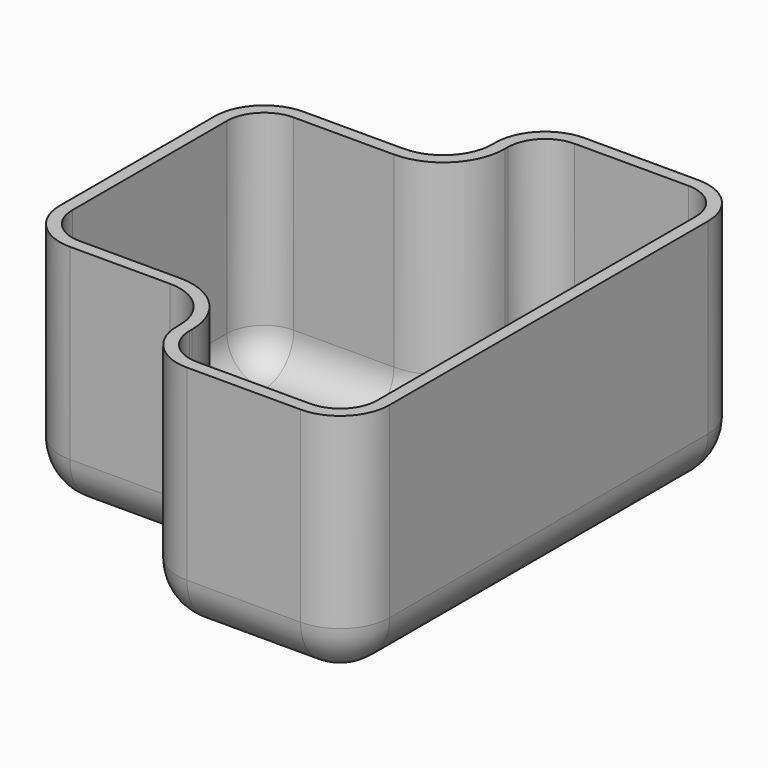
from build123d import *

# Parameters (mm, degrees)
F0_W     = 40.881359
F0_H     = 60.0299
F1_DEPTH = 48.612542
F2_R     = 10.16
F3_T     = -2.54
F5_D     = 15.24


with BuildPart() as f1:
    # F0 (on Top) → F1 (new body)
    with BuildSketch(Plane.XY):
        Polygon((43.658987, 51.038296), (0, 51.038296), (0, 30.01495), (0, -30.01495), (0, -51.038296), (43.658987, -51.038296), align=None)
        with Locations((-20.440679, 0)):
            Rectangle(F0_W, F0_H)
    extrude(amount=F1_DEPTH)

    # F2
    f2_edges = [f1.edges().sort_by_distance(p)[0] for p in [
        (0, 51.038296, 24.306271),
        (43.658987, -51.038296, 24.306271),
        (43.658987, 51.038296, 24.306271),
        (0, -51.038296, 24.306271),
        (43.658987, 0, 0),
        (21.829493, 51.038296, 0),
        (0, 40.526623, 0),
        (-20.44068, 30.01495, 0),
        (-40.881359, 0, 0),
        (-20.44068, -30.01495, 0),
        (0, -40.526623, 0),
        (21.829493, -51.038296, 0),
        (0, 30.01495, 24.306271),
        (-40.881359, 30.01495, 24.306271),
        (-40.881359, -30.01495, 24.306271),
        (0, -30.01495, 24.306271),
    ]]
    fillet(f2_edges, radius=F2_R)

    # F3
    f3_openings = [f1.faces().sort_by_distance(p)[0] for p in [
        (6.859627, 0, 48.612542),
    ]]
    offset(amount=F3_T, openings=f3_openings)

    # F5 (through all)
    with Locations(Plane(origin=(0, 0, 0), x_dir=(1, 0, 0), z_dir=(0, 0, -1))):
        with Locations((29.013653, 0)):
            Hole(F5_D / 2)


solid = f1.part
